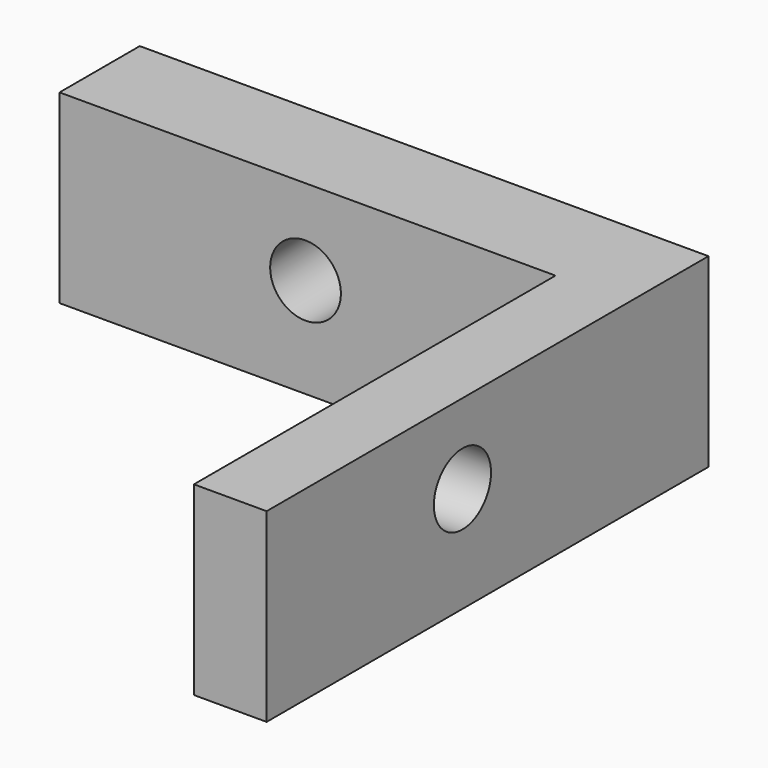
from build123d import *

# Parameters (mm, degrees)
F1_DEPTH = 25.4
F2_R     = 4.889775
F3_DEPTH = 25.4
F4_R     = 4.841352
F5_DEPTH = 14.478


with BuildPart() as f1:
    # F0 (on Top) → F1 (new body)
    with BuildSketch(Plane.XY):
        Polygon((29.374033, 35.010495), (-48.49131, 35.010495), (-48.49131, 21.278509), (19.415045, 21.278509), (19.415045, -40.607721), (29.374033, -40.607721), align=None)
    extrude(amount=F1_DEPTH)

    # F2 (on face) → F3 (cut)
    with BuildSketch(Plane.YZ.offset(29.374033)):
        with Locations((-7.096407, 14.460783)):
            Circle(F2_R)
    extrude(amount=-F3_DEPTH, mode=Mode.SUBTRACT)

    # F4 (on face) → F5 (cut)
    with BuildSketch(Plane(origin=(0, 35.010495, 0), x_dir=(-1, 0, 0), z_dir=(0, 1, 0))):
        with Locations((14.813676, 13.677494)):
            Circle(F4_R)
    extrude(amount=-F5_DEPTH, mode=Mode.SUBTRACT)


solid = f1.part
